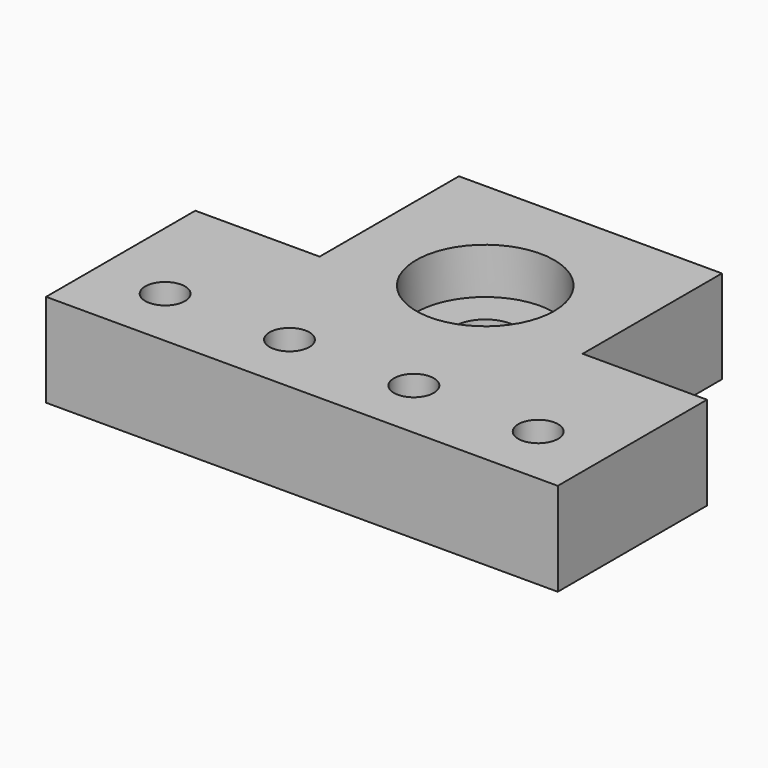
from build123d import *

# Parameters (mm, degrees)
SKETCH_R        = 5
SKETCH_R_2      = 3.2
PAD_DEPTH       = 15
SKETCH002_R     = 6.1
POCKET001_DEPTH = 4
SKETCH003_R     = 11.1
POCKET_DEPTH    = 7.4


with BuildPart() as part:
    # Sketch → Pad (new body)
    with BuildSketch(Plane.XY):
        Polygon((20, 30), (20, 58), (62.3, 58), (62.3, 30), (82.3, 30), (82.3, 0), (0, 0), (0, 30), align=None)
        with Locations((41.15, 36.85)):
            Circle(SKETCH_R, mode=Mode.SUBTRACT)
        with Locations((11.15, 10)):
            Circle(SKETCH_R_2, mode=Mode.SUBTRACT)
        with Locations((31.15, 10)):
            Circle(SKETCH_R_2, mode=Mode.SUBTRACT)
        with Locations((51.15, 10)):
            Circle(SKETCH_R_2, mode=Mode.SUBTRACT)
        with Locations((71.15, 10)):
            Circle(SKETCH_R_2, mode=Mode.SUBTRACT)
    extrude(amount=PAD_DEPTH)

    # Sketch002 → Pocket001 (cut)
    with BuildSketch(Plane(origin=(0, 0, 0), x_dir=(1, 0, 0), z_dir=(0, 0, -1))):
        with Locations((11.15, -10)):
            Circle(SKETCH002_R)
        with Locations((31.15, -10)):
            Circle(SKETCH002_R)
        with Locations((51.15, -10)):
            Circle(SKETCH002_R)
        with Locations((71.15, -10)):
            Circle(SKETCH002_R)
    extrude(amount=-POCKET001_DEPTH, mode=Mode.SUBTRACT)

    # Sketch003 (on Face5 of Pocket001) → Pocket (cut)
    with BuildSketch(Plane.XY.offset(15)):
        with Locations((41.15, 36.85)):
            Circle(SKETCH003_R)
    extrude(amount=-POCKET_DEPTH, mode=Mode.SUBTRACT)


solid = part.part
